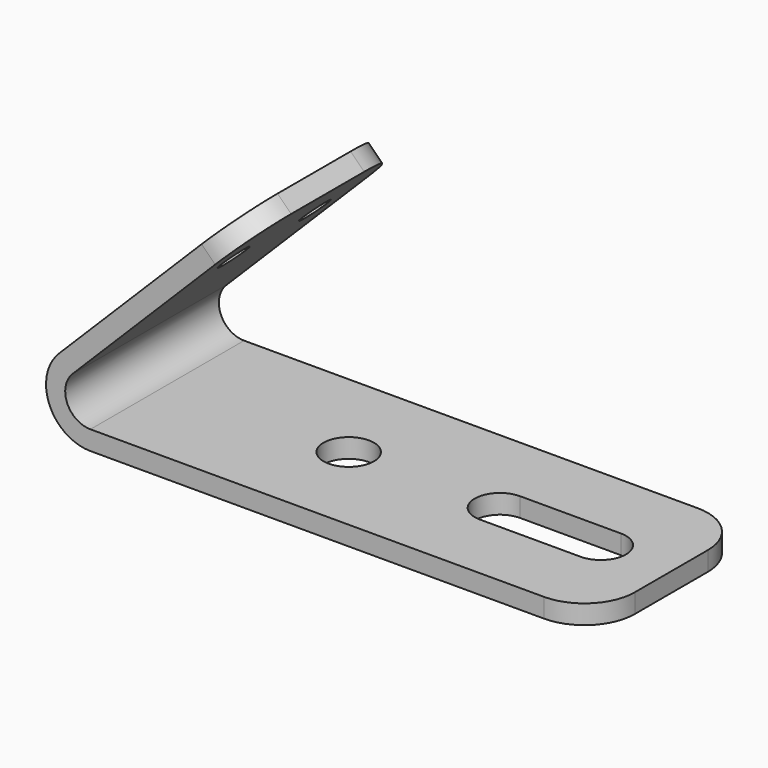
from build123d import *

# Parameters (mm, degrees)
F0_W          = 1270
F0_H          = 48.26
F1_DEPTH      = 241.935
F1_DEPTH_BACK = 241.935
F2_R          = 127
F3_R          = 38.1
F4_DEPTH      = 127
F5_DEPTH      = 127
F6_R          = 63.5
F7_DEPTH      = 127


with BuildPart() as f1:
    # F0 (on Front) → F1 (new body, two sides)
    with BuildSketch(Plane.XZ) as f1_sk:
        with BuildLine():
            ThreePointArc((-714.026254, 166.656254), (-738.252777, 44.8613), (-635, -24.13))
            Line((-635, -24.13), (-635, 24.13))
            ThreePointArc((-635, 24.13), (-693.66635, 63.329602), (-679.901281, 132.531281))
            Line((-679.901281, 132.531281), (-230.888475, 581.544087))
            Line((-230.888475, 581.544087), (-265.013448, 615.66906))
            Line((-265.013448, 615.66906), (-634.889376, 245.793132))
            Line((-634.889376, 245.793132), (-714.026254, 166.656254))
        make_face()
        Rectangle(F0_W, F0_H)
    extrude(amount=F1_DEPTH)
    extrude(f1_sk.sketch, amount=-F1_DEPTH_BACK)

    # F2
    f2_edges = [f1.edges().sort_by_distance(p)[0] for p in [
        (-247.950961, -241.935, 598.606573),
        (-247.950961, 241.935, 598.606573),
        (635, 241.935, 0),
        (635, -241.935, 0),
    ]]
    fillet(f2_edges, radius=F2_R)

    # F3 (on face) → F4 (cut)
    with BuildSketch(Plane(origin=(-440.341254, 0, 440.341254), x_dir=(0, -1, 0), z_dir=(-0.707107, 0, 0.707107))):
        with Locations((-127.635, 57.450961)):
            Circle(F3_R)
        with Locations((127.635, 57.450961)):
            Circle(F3_R)
    extrude(amount=-F4_DEPTH, mode=Mode.SUBTRACT)

    # F3 (on face) → F5 (cut)
    with BuildSketch(Plane(origin=(-440.341254, 0, 440.341254), x_dir=(0, -1, 0), z_dir=(-0.707107, 0, 0.707107))):
        with Locations((-127.635, 57.450961)):
            Circle(F3_R)
        with Locations((127.635, 57.450961)):
            Circle(F3_R)
    extrude(amount=-F5_DEPTH, mode=Mode.SUBTRACT)

    # F6 (on face) → F7 (cut)
    with BuildSketch(Plane.XY.offset(24.13)):
        with Locations((-177.8, 0)):
            Circle(F6_R)
        with BuildLine():
            Line((203.2, -63.5), (457.2, -63.5))
            ThreePointArc((457.2, -63.5), (520.7, 0), (457.2, 63.5))
            Line((457.2, 63.5), (203.2, 63.5))
            ThreePointArc((203.2, 63.5), (139.7, 0), (203.2, -63.5))
        make_face()
    extrude(amount=-F7_DEPTH, mode=Mode.SUBTRACT)


solid = f1.part
